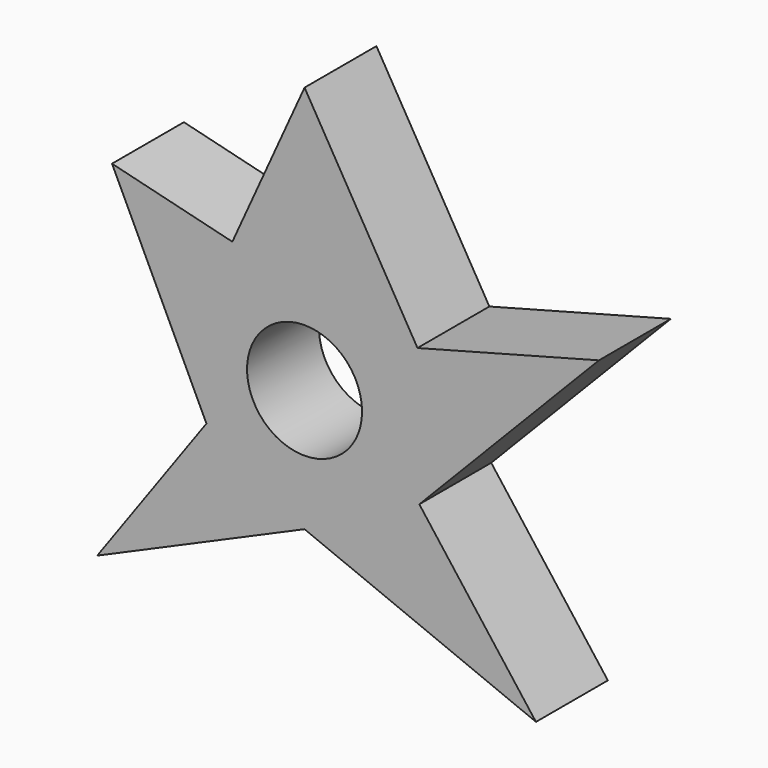
from build123d import *

# Parameters (mm, degrees)
F1_DEPTH = 13.97
F2_R     = 8.940528
F3_DEPTH = 13.97


with BuildPart() as f1:
    # F0 (on Front) → F1 (new body)
    with BuildSketch(Plane.XZ):
        Polygon((17.556151, 11.512231), (0, 41.444026), (-11.224424, 16.692733), (-29.931799, 21.297626), (-15.253706, -9.49759), (-32.234244, -33.097662), (0, -18.995181), (35.975721, -33.673272), (17.843958, -9.785396), (45.761116, 18.995181), align=None)
    extrude(amount=F1_DEPTH)

    # F2 (on Front) → F3 (cut, through all)
    with BuildSketch(Plane.XZ):
        Circle(F2_R)
    extrude(amount=F3_DEPTH, mode=Mode.SUBTRACT)


solid = f1.part
